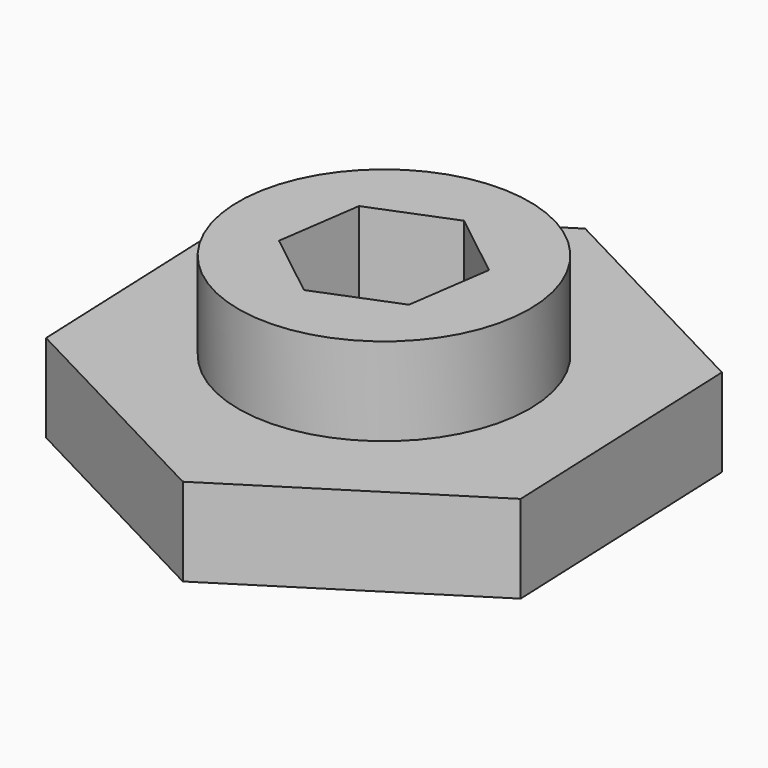
from build123d import *

# Parameters (mm, degrees)
F1_DEPTH = 25.4
F2_R     = 42.08433
F3_DEPTH = 25.4
F5_DEPTH = 50.8


with BuildPart() as f1:
    # F0 (on Top) → F1 (new body)
    with BuildSketch(Plane.XY):
        Polygon((-3.173529, 76.703862), (-68.014258, 35.603574), (-64.840729, -41.100288), (3.173529, -76.703862), (68.014258, -35.603574), (64.840729, 41.100288), align=None)
    extrude(amount=F1_DEPTH)

    # F2 (on face) → F3 (join)
    with BuildSketch(Plane.XY.offset(25.4)):
        Circle(F2_R)
    extrude(amount=F3_DEPTH)

    # F4 (on face) → F5 (cut, through all)
    with BuildSketch(Plane.XY.offset(50.8)):
        Polygon((3.518755, 24.523791), (-19.478848, 15.309226), (-22.997603, -9.214564), (-3.518755, -24.523791), (19.478848, -15.309226), (22.997603, 9.214564), align=None)
    extrude(amount=-F5_DEPTH, mode=Mode.SUBTRACT)


solid = f1.part
